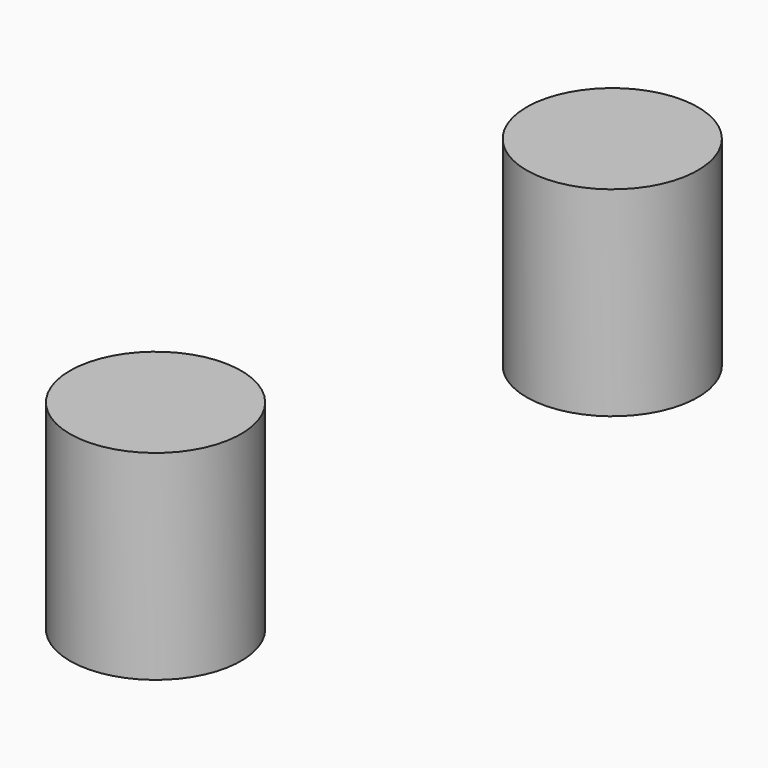
from build123d import *

# Parameters (mm, degrees)
CYLINDER025_R                  = 1.5
CYLINDER025_DEPTH              = 3.5
CYLINDER025_PITCH_ANGLE        = 90
CYLINDER024_R                  = 1.5
CYLINDER024_DEPTH              = 3.5
CYLINDER024_PITCH_ANGLE        = 90
FUSION002003003011_PITCH_ANGLE = 90


with BuildPart() as cylinder025:
    # Cylinder025 → Cylinder025 (new body)
    with BuildSketch(Plane.XY):
        Circle(CYLINDER025_R)
    extrude(amount=CYLINDER025_DEPTH)


with BuildPart() as cylinder025_1:
    # Cylinder025 pitch: moved
    add(cylinder025.part.rotate(Axis((0, 0, 0), (0, 1, 0)), CYLINDER025_PITCH_ANGLE))


with BuildPart() as cylinder025_2:
    # Cylinder025 placement: moved
    add(cylinder025_1.part.moved(Location((48, 20, -2.5))))


with BuildPart() as bracket_block_holes001:
    # Cylinder024 → Cylinder024 (new body)
    with BuildSketch(Plane.XY):
        Circle(CYLINDER024_R)
    extrude(amount=CYLINDER024_DEPTH)


with BuildPart() as bracket_block_holes001_1:
    # Cylinder024 pitch: moved
    add(bracket_block_holes001.part.rotate(Axis((0, 0, 0), (0, 1, 0)), CYLINDER024_PITCH_ANGLE))


with BuildPart() as bracket_block_holes001_2:
    # Cylinder024 placement: moved
    add(bracket_block_holes001_1.part.moved(Location((48, 10, -2.5))))

    # Fusion002003003011: union Cylinder025
    add(cylinder025_2.part)


with BuildPart() as bracket_block_holes001_3:
    # Fusion002003003011 pitch: moved
    add(bracket_block_holes001_2.part.rotate(Axis((0, 0, 0), (0, 1, 0)), FUSION002003003011_PITCH_ANGLE))


with BuildPart() as bracket_block_holes001_4:
    # Fusion002003003011 placement: moved
    add(bracket_block_holes001_3.part.moved(Location((22, -18.5, 50.5))))


solid = bracket_block_holes001_4.part
